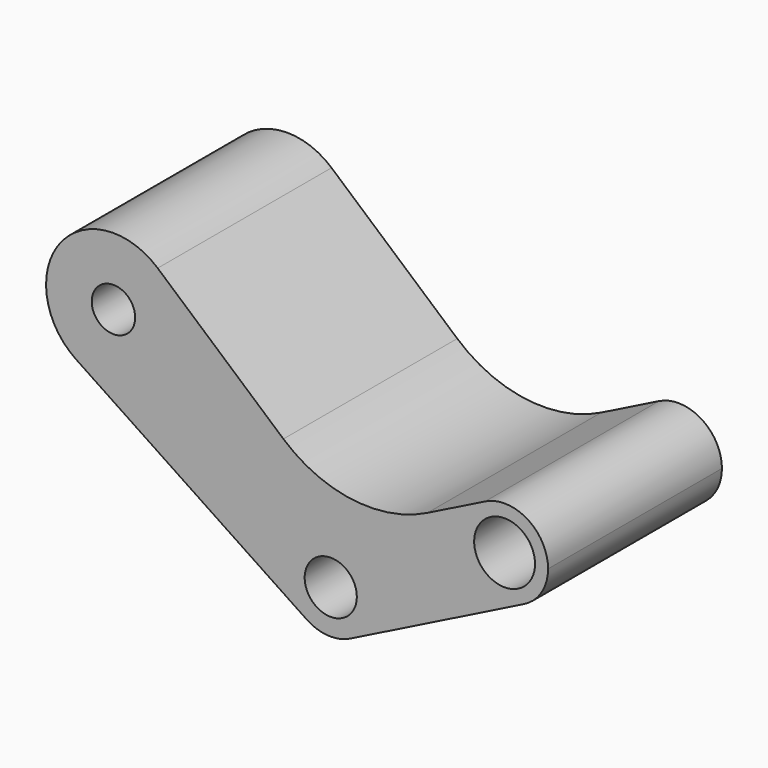
from build123d import *

# Parameters (mm, degrees)
F0_R     = 127
F0_R_2   = 152.4
F0_R_3   = 177.8
F1_DEPTH = 635


with BuildPart() as f1:
    # F0 (on Front) → F1 (new body, symmetric)
    with BuildSketch(Plane.XZ):
        with BuildLine():
            ThreePointArc((-1011.462693, 1312.914384), (-1582.802968, 1255.069014), (-1488.626766, 688.582793))
            ThreePointArc((-1488.626766, 688.582793), (-1084.357424, 668.816297), (-876.3, 1016))
            ThreePointArc((-876.3, 1016), (-911.680431, 1179.115837), (-1011.462693, 1312.914384))
        make_face()
        with Locations((-1270, 1016)):
            Circle(F0_R, mode=Mode.SUBTRACT)
        with BuildLine():
            ThreePointArc((-141.049526, -211.236908), (-119.769404, 223.989486), (254, 0))
            ThreePointArc((254, 0), (216.065305, -133.535702), (113.592253, -227.184507))
            Line((113.592253, -227.184507), (1129.592253, 280.815493))
            ThreePointArc((1129.592253, 280.815493), (788.815493, 394.407747), (902.407747, 735.184507))
            Line((902.407747, 735.184507), (564.489823, 566.225545))
            ThreePointArc((564.489823, 566.225545), (127.66443, 491.856674), (-276.681724, 673.106064))
            Line((-276.681724, 673.106064), (-1011.462693, 1312.914384))
            ThreePointArc((-1011.462693, 1312.914384), (-911.680431, 1179.115837), (-876.3, 1016))
            ThreePointArc((-876.3, 1016), (-1084.357424, 668.816297), (-1488.626766, 688.582793))
            Line((-1488.626766, 688.582793), (-141.049526, -211.236908))
        make_face()
        with BuildLine():
            ThreePointArc((113.592253, -227.184507), (216.065305, -133.535702), (254, 0))
            ThreePointArc((254, 0), (-119.769404, 223.989486), (-141.049526, -211.236908))
            ThreePointArc((-141.049526, -211.236908), (-15.876301, -253.503339), (113.592253, -227.184507))
        make_face()
        Circle(F0_R_2, mode=Mode.SUBTRACT)
        with BuildLine():
            ThreePointArc((902.407747, 735.184507), (788.815493, 394.407747), (1129.592253, 280.815493))
            ThreePointArc((1129.592253, 280.815493), (1232.065305, 374.464298), (1270, 508))
            ThreePointArc((1270, 508), (1149.535702, 724.065305), (902.407747, 735.184507))
        make_face()
        with Locations((1016, 508)):
            Circle(F0_R_3, mode=Mode.SUBTRACT)
    extrude(amount=F1_DEPTH, both=True)


solid = f1.part
